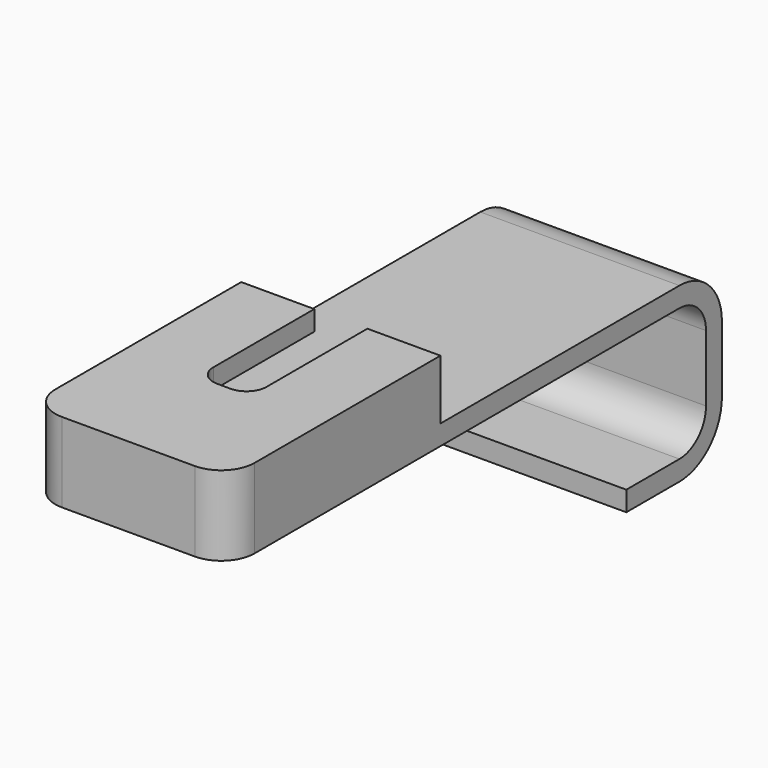
from build123d import *

# Parameters (mm, degrees)
F1_DEPTH = 3
F3_DEPTH = 6
F5_DEPTH = 3
F7_DEPTH = 40
F9_DEPTH = 30


with BuildPart() as f1:
    # F0 (on Top) → F1 (new body)
    with BuildSketch(Plane.XY):
        with BuildLine():
            Line((-25, 0), (-5, 0))
            ThreePointArc((-5, 0), (-1.464466, 1.464466), (0, 5))
            Line((0, 5), (0, 40))
            Line((0, 40), (-30, 40))
            Line((-30, 40), (-30, 5))
            ThreePointArc((-30, 5), (-28.535534, 1.464466), (-25, 0))
        make_face()
    extrude(amount=F1_DEPTH)

    # F2 (on face) → F3 (join)
    with BuildSketch(Plane.XY.offset(3)):
        with BuildLine():
            ThreePointArc((-24, 3), (-26.12132, 3.87868), (-27, 6))
            Line((-27, 6), (-27, 40))
            Line((-27, 40), (-30, 40))
            Line((-30, 40), (-30, 5))
            ThreePointArc((-30, 5), (-28.535534, 1.464466), (-25, 0))
            Line((-25, 0), (-5, 0))
            ThreePointArc((-5, 0), (-1.464466, 1.464466), (0, 5))
            Line((0, 5), (0, 40))
            Line((0, 40), (-3, 40))
            Line((-3, 40), (-3, 6))
            ThreePointArc((-3, 6), (-3.87868, 3.87868), (-6, 3))
            Line((-6, 3), (-24, 3))
        make_face()
    extrude(amount=F3_DEPTH)

    # F4 (on face) → F5 (join)
    with BuildSketch(Plane.XY.offset(9)):
        with BuildLine():
            Line((-25, 0), (-5, 0))
            ThreePointArc((-5, 0), (-1.464466, 1.464466), (0, 5))
            Line((0, 5), (0, 40))
            Line((0, 40), (-11, 40))
            Line((-11, 40), (-11, 21))
            ThreePointArc((-11, 21), (-11.87868, 18.87868), (-14, 18))
            Line((-14, 18), (-16, 18))
            ThreePointArc((-16, 18), (-18.12132, 18.87868), (-19, 21))
            Line((-19, 21), (-19, 40))
            Line((-19, 40), (-30, 40))
            Line((-30, 40), (-30, 5))
            ThreePointArc((-30, 5), (-28.535534, 1.464466), (-25, 0))
        make_face()
        with BuildLine():
            Line((-25, 0), (-5, 0))
            ThreePointArc((-5, 0), (-1.464466, 1.464466), (0, 5))
            Line((0, 5), (0, 40))
            Line((0, 40), (-11, 40))
            Line((-11, 40), (-11, 21))
            ThreePointArc((-11, 21), (-11.87868, 18.87868), (-14, 18))
            Line((-14, 18), (-16, 18))
            ThreePointArc((-16, 18), (-18.12132, 18.87868), (-19, 21))
            Line((-19, 21), (-19, 40))
            Line((-19, 40), (-30, 40))
            Line((-30, 40), (-30, 5))
            ThreePointArc((-30, 5), (-28.535534, 1.464466), (-25, 0))
        make_face()
    extrude(amount=F5_DEPTH)

    # F6 (on face) → F7 (join)
    with BuildSketch(Plane(origin=(0, 40, 0), x_dir=(-1, 0, 0), z_dir=(0, 1, 0))):
        Polygon((0, 0), (30, 0), (30, 3), (27, 3), (3, 3), (0, 3), align=None)
    extrude(amount=F7_DEPTH)

    # F8 (on face) → F9 (join)
    with BuildSketch(Plane(origin=(-30, 0, 0), x_dir=(0, -1, 0), z_dir=(-1, 0, 0))):
        with BuildLine():
            Line((-85, 0), (-80, 0))
            Line((-80, 0), (-80, 3))
            Line((-80, 3), (-85, 3))
            ThreePointArc((-85, 3), (-90.656854, 0.656854), (-93, -5))
            Line((-93, -5), (-93, -10))
            Line((-93, -10), (-93, -15))
            ThreePointArc((-93, -15), (-90.656854, -20.656854), (-85, -23))
            Line((-85, -23), (-80, -23))
            Line((-80, -23), (-75, -23))
            Line((-75, -23), (-75, -20))
            Line((-75, -20), (-80, -20))
            Line((-80, -20), (-85, -20))
            ThreePointArc((-85, -20), (-88.535534, -18.535534), (-90, -15))
            Line((-90, -15), (-90, -10))
            Line((-90, -10), (-90, -5))
            ThreePointArc((-90, -5), (-88.535534, -1.464466), (-85, 0))
        make_face()
    extrude(amount=-F9_DEPTH)


solid = f1.part
